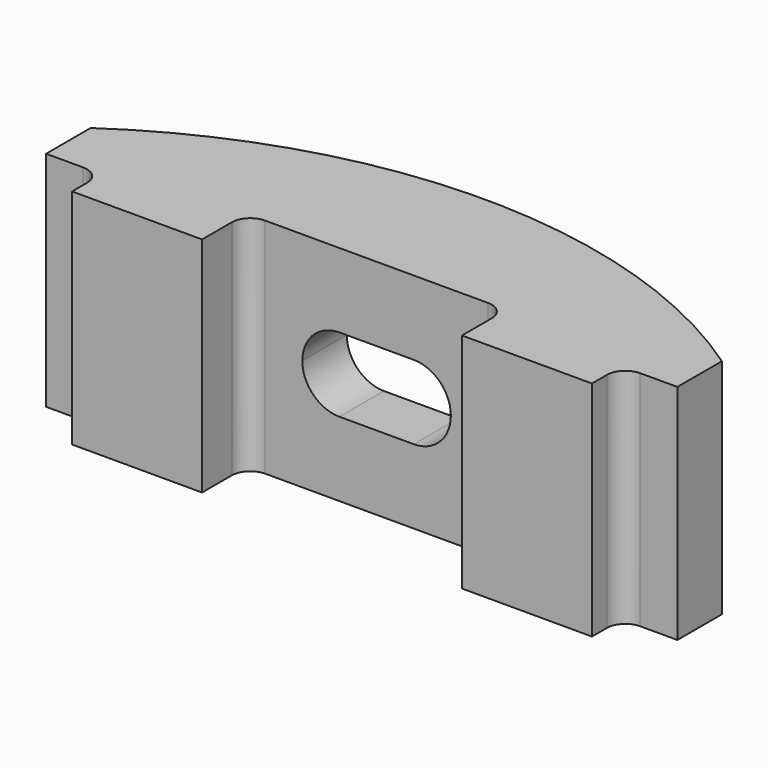
from build123d import *

# Parameters (mm, degrees)
F0_W      = 170
F0_H      = 60
F1_DEPTH  = 30
F2_W      = 70
F2_H      = 30
F3_DEPTH  = 59.69157
F4_R      = 5
F6_DEPTH  = 60.001
F7_W      = 57.5
F7_H      = 5
F8_DEPTH  = 60.001
F10_DEPTH = 6
F13_DEPTH = 30.001


with BuildPart() as f1:
    # F0 (on Front) → F1 (new body)
    with BuildSketch(Plane.XZ):
        Rectangle(F0_W, F0_H)
    extrude(amount=F1_DEPTH)

    # F2 (on Top) → F3 (cut, symmetric)
    with BuildSketch(Plane.XY):
        with Locations((0, -30)):
            Rectangle(F2_W, F2_H)
    extrude(amount=F3_DEPTH, both=True, mode=Mode.SUBTRACT)

    # F4
    f4_edges = [f1.edges().sort_by_distance(p)[0] for p in [
        (35, -15, 0),
        (-35, -15, 0),
    ]]
    fillet(f4_edges, radius=F4_R)

    # F5 (on face) → F6 (cut, through all)
    with BuildSketch(Plane.XY.offset(30)):
        with BuildLine():
            Line((70, -30), (85, -30))
            Line((85, -30), (85, -20))
            Line((85, -20), (75, -20))
            ThreePointArc((75, -20), (71.4644660941, -21.4644660941), (70, -25))
            Line((70, -25), (70, -30))
        make_face()
        with BuildLine():
            Line((-85, -20), (-85, -30))
            Line((-85, -30), (-70, -30))
            Line((-70, -30), (-70, -25))
            ThreePointArc((-70, -25), (-71.4644660941, -21.4644660941), (-75, -20))
            Line((-75, -20), (-85, -20))
        make_face()
    extrude(amount=-F6_DEPTH, mode=Mode.SUBTRACT)

    # F7 (on face) → F8 (cut, through all)
    with BuildSketch(Plane.XY.offset(30)):
        with Locations((56.25, -2.5)):
            Rectangle(F7_W, F7_H)
        with Locations((-56.25, -2.5)):
            Rectangle(F7_W, F7_H)
    extrude(amount=-F8_DEPTH, mode=Mode.SUBTRACT)

    # F9 (on face) → F10 (join)
    with BuildSketch(Plane.XY.offset(30)):
        with BuildLine():
            Line((27.5, -5), (85, -5))
            ThreePointArc((85, -5), (0, 21.4079290569), (-85, -5))
            Line((-85, -5), (-27.5, -5))
            Line((-27.5, -5), (-27.5, 0))
            Line((-27.5, 0), (27.5, 0))
            Line((27.5, 0), (27.5, -5))
        make_face()
    extrude(amount=-F10_DEPTH)

    # F11: F1 across plane


with BuildPart() as f1_1:
    add(f1.part)
    add(f1.part.mirror(Plane.XY))

    # F12 (on face) → F13 (cut, through all)
    with BuildSketch(Plane(origin=(0, 0, 0), x_dir=(-1, 0, 0), z_dir=(0, 1, 0))):
        with BuildLine():
            ThreePointArc((20, 0), (17.0710678119, 7.0710678119), (10, 10))
            Line((10, 10), (-10, 10))
            ThreePointArc((-10, 10), (-17.0710678119, 7.0710678119), (-20, 0))
            ThreePointArc((-20, 0), (-17.0710678119, -7.0710678119), (-10, -10))
            Line((-10, -10), (10, -10))
            ThreePointArc((10, -10), (17.0710678119, -7.0710678119), (20, 0))
        make_face()
    extrude(amount=-F13_DEPTH, mode=Mode.SUBTRACT)


solid = f1_1.part
